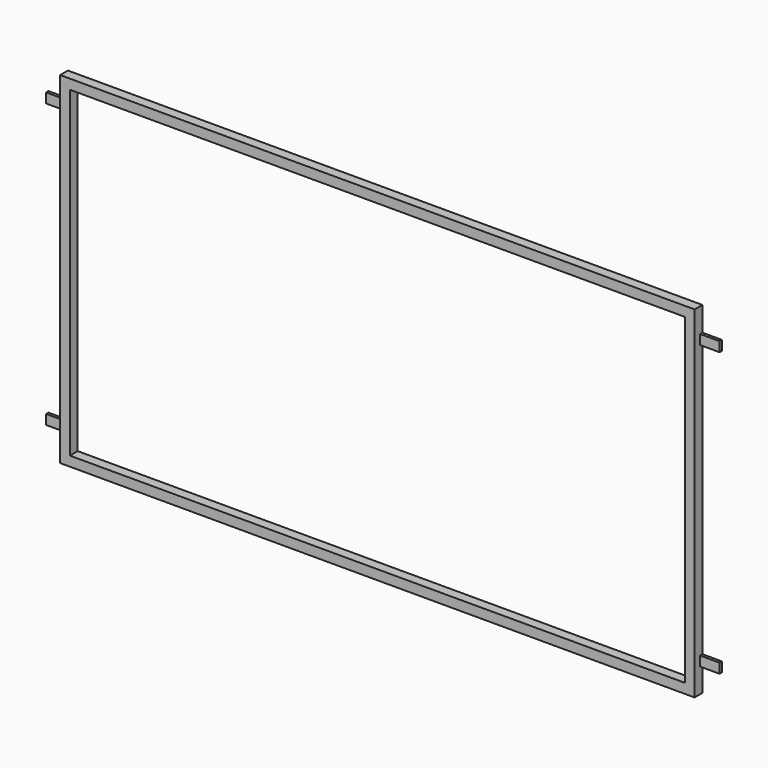
from build123d import *

# Parameters (mm, degrees)
F0_W     = 1300
F0_H     = 700
F0_W_2   = 1260
F0_H_2   = 660
F1_DEPTH = 20
F2_W     = 40
F2_H     = 20
F3_DEPTH = 6


with BuildPart() as f1:
    # F0 (on Front) → F1 (new body)
    with BuildSketch(Plane.XZ):
        Rectangle(F0_W, F0_H)
        Rectangle(F0_W_2, F0_H_2, mode=Mode.SUBTRACT)
        Rectangle(F0_W, F0_H)
        Rectangle(F0_W_2, F0_H_2, mode=Mode.SUBTRACT)
    extrude(amount=F1_DEPTH)

    # F2 (on Front) → F3 (join)
    with BuildSketch(Plane.XZ):
        with Locations((670, -290)):
            Rectangle(F2_W, F2_H)
    extrude(amount=F3_DEPTH)

    # F4: F1 across plane


with BuildPart() as f1_1:
    add(f1.part)
    add(f1.part.mirror(Plane.XY))

    # F5: F1 across plane


with BuildPart() as f1_2:
    add(f1_1.part)
    add(f1_1.part.mirror(Plane.YZ))


solid = f1_2.part
